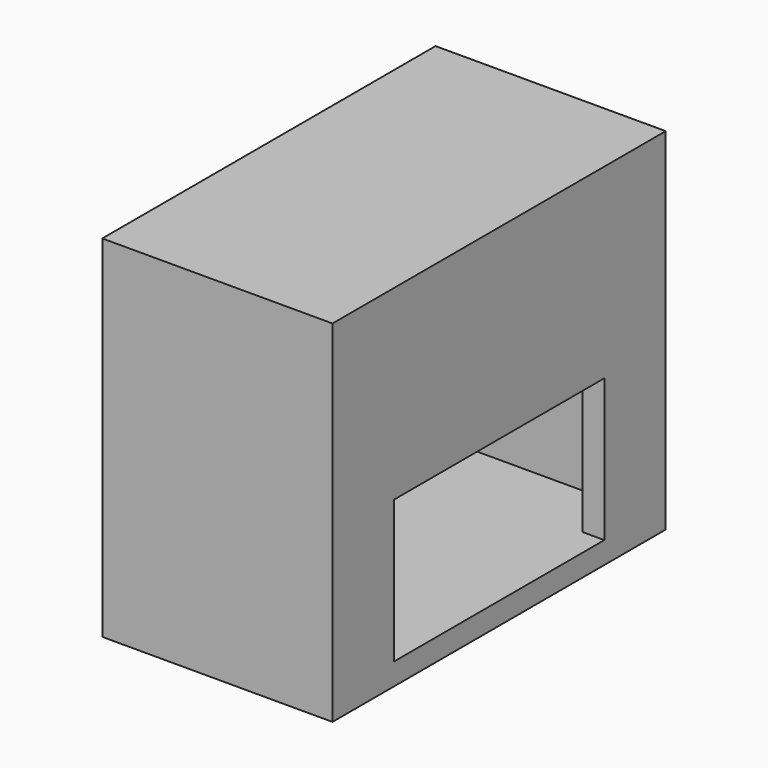
from build123d import *

# Parameters (mm, degrees)
BOX002002_W     = 22
BOX002002_H     = 24
BOX002002_DEPTH = 13
BOX002_W        = 19
BOX002_H        = 34
BOX002_DEPTH    = 28
BOX002001_W     = 21
BOX002001_H     = 38
BOX002001_DEPTH = 32


with BuildPart() as box002002:
    # Box002002 → Box002002 (new body)
    with BuildSketch(Plane.XY.offset(2)):
        with Locations((11, 12)):
            Rectangle(BOX002002_W, BOX002002_H)
    extrude(amount=BOX002002_DEPTH)


with BuildPart() as fusion007:
    # Box002 → Box002 (new body)
    with BuildSketch(Plane(origin=(0, -5, 2), x_dir=(1, 0, 0), z_dir=(0, 0, 1))):
        with Locations((9.5, 17)):
            Rectangle(BOX002_W, BOX002_H)
    extrude(amount=BOX002_DEPTH)

    # Fusion007: union Box002002
    add(box002002.part)


with BuildPart() as cut:
    # Box002001 → Box002001 (new body)
    with BuildSketch(Plane(origin=(0, -7, 0), x_dir=(1, 0, 0), z_dir=(0, 0, 1))):
        with Locations((10.5, 19)):
            Rectangle(BOX002001_W, BOX002001_H)
    extrude(amount=BOX002001_DEPTH)

    # Cut: cut Fusion007
    add(fusion007.part, mode=Mode.SUBTRACT)


solid = cut.part
